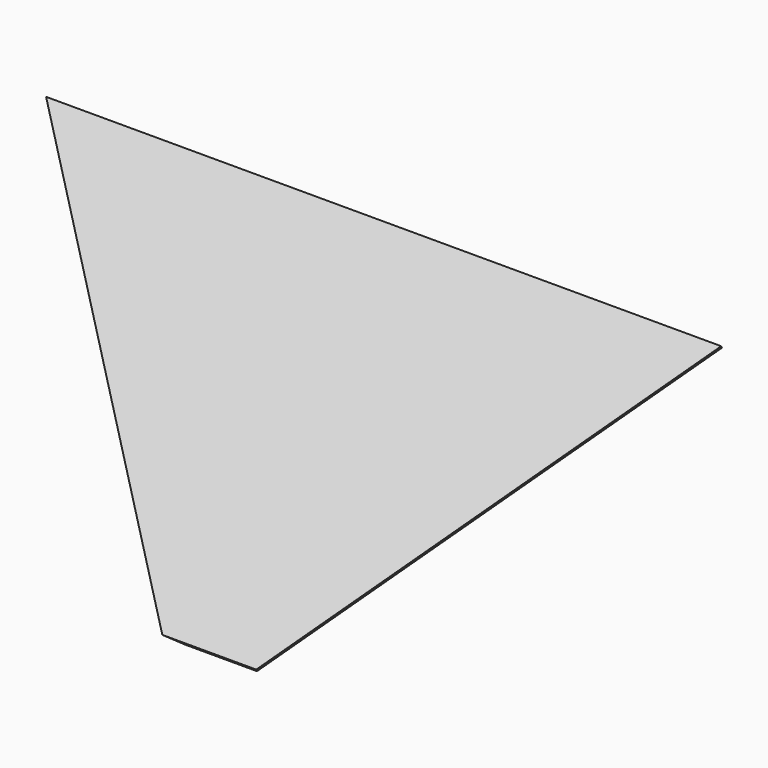
from build123d import *

# Parameters (mm, degrees)
F1_DEPTH = 241.3
F3_DEPTH = 81.281


with BuildPart() as f1:
    # F0 (on Right) → F1 (new body)
    with BuildSketch(Plane.YZ):
        Polygon((-81.28, 3.81), (-76.2, 0), (0, 101.6), (-5.08, 105.41), align=None)
    extrude(amount=F1_DEPTH)

    # F2 (on Front) → F3 (cut, through all)
    with BuildSketch(Plane.XZ):
        Polygon((236.03712, 105.41), (130.62712, 0), (241.3, 0), (241.3, 105.41), align=None)
        Polygon((0, 105.41), (0, 0), (105.41, 0), align=None)
    extrude(amount=F3_DEPTH, mode=Mode.SUBTRACT)


solid = f1.part
